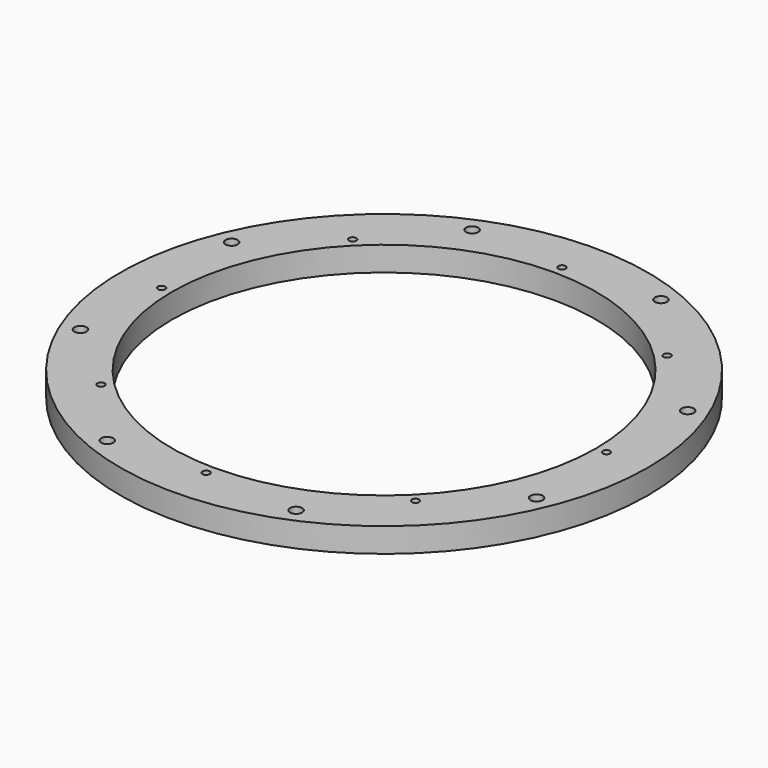
from build123d import *

# Parameters (mm, degrees)
SKETCH001_R       = 108
SKETCH001_R_2     = 86.75
SKETCH001_R_3     = 2.5
PAD_DEPTH         = 10
SKETCH_R          = 1.5
POCKET_DEPTH      = 10.001
POCKET_DEPTH_BACK = 0.001


with BuildPart() as part:
    # Sketch001 → Pad (new body)
    with BuildSketch(Plane(origin=(0, 0, 0), x_dir=(1, 0, 0), z_dir=(0, 0, -1))):
        Circle(SKETCH001_R)
        Circle(SKETCH001_R_2, mode=Mode.SUBTRACT)
        with Locations((38.651027, 93.311833)):
            Circle(SKETCH001_R_3, mode=Mode.SUBTRACT)
        with Locations((93.311833, 38.651027)):
            Circle(SKETCH001_R_3, mode=Mode.SUBTRACT)
        with Locations((93.311833, -38.651027)):
            Circle(SKETCH001_R_3, mode=Mode.SUBTRACT)
        with Locations((38.651027, -93.311833)):
            Circle(SKETCH001_R_3, mode=Mode.SUBTRACT)
        with Locations((-38.651027, 93.311833)):
            Circle(SKETCH001_R_3, mode=Mode.SUBTRACT)
        with Locations((-93.311833, 38.651027)):
            Circle(SKETCH001_R_3, mode=Mode.SUBTRACT)
        with Locations((-93.311833, -38.651027)):
            Circle(SKETCH001_R_3, mode=Mode.SUBTRACT)
        with Locations((-38.651027, -93.311833)):
            Circle(SKETCH001_R_3, mode=Mode.SUBTRACT)
    extrude(amount=PAD_DEPTH)

    # Sketch → Pocket (cut, two sides)
    with BuildSketch(Plane.XY) as pocket_sk:
        with Locations((64.346717, 64.346717)):
            Circle(SKETCH_R)
        with Locations((0, 91)):
            Circle(SKETCH_R)
        with Locations((91, 0)):
            Circle(SKETCH_R)
        with Locations((64.346717, -64.346717)):
            Circle(SKETCH_R)
        with Locations((0, -91)):
            Circle(SKETCH_R)
        with Locations((-91, 0)):
            Circle(SKETCH_R)
        with Locations((-64.346717, -64.346717)):
            Circle(SKETCH_R)
        with Locations((-64.346717, 64.346717)):
            Circle(SKETCH_R)
    extrude(amount=-POCKET_DEPTH, mode=Mode.SUBTRACT)
    extrude(pocket_sk.sketch, amount=POCKET_DEPTH_BACK, mode=Mode.SUBTRACT)


solid = part.part
